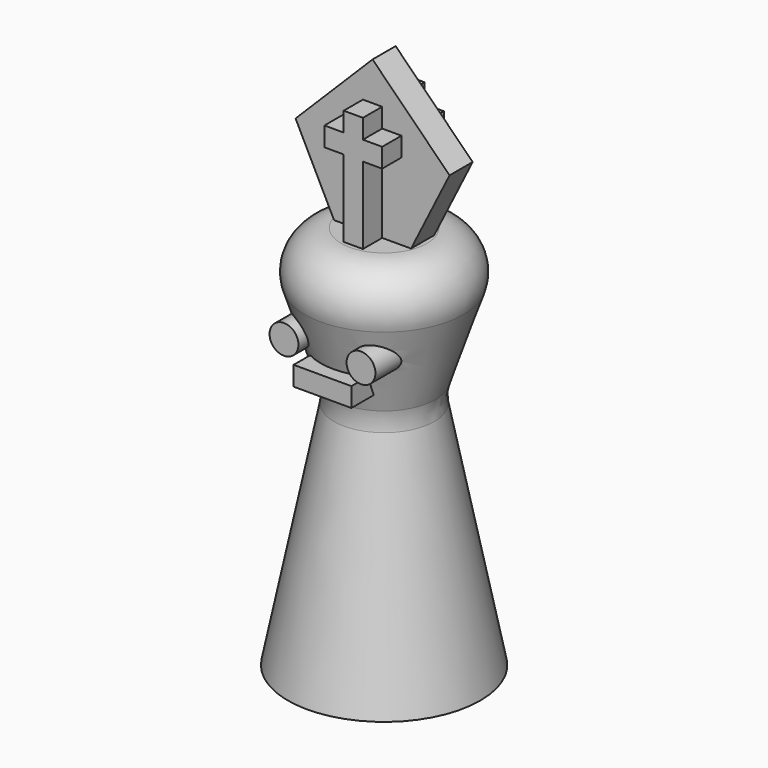
from build123d import *

# Parameters (mm, degrees)
F2_R     = 5.08
F4_DEPTH = 1.905
F6_DEPTH = 5.08
F7_R     = 1.905
F7_W     = 7.62
F7_H     = 2.54
F8_DEPTH = 10.16


with BuildPart() as f1:
    # F0 (on Front) → F1 (revolve)
    with BuildSketch(Plane.XZ):
        Polygon((12.7, 50.8), (12.7, 0), (25.4, 0), (19.05, 31.75), (25.4, 50.8), align=None)
    revolve(axis=Axis((12.7, 0, 25.4), (0, 0, -1)))

    # F2
    f2_edges = [f1.edges().sort_by_distance(p)[0] for p in [
        (0, 0, 50.8),
        (6.35, 0, 31.75),
    ]]
    fillet(f2_edges, radius=F2_R)

    # F3 (on Front) → F4 (join, symmetric)
    with BuildSketch(Plane.XZ):
        Polygon((2.54, 60.96), (7.62, 50.8), (17.78, 50.8), (22.86, 60.96), (12.7, 71.12), align=None)
    extrude(amount=F4_DEPTH, both=True)

    # F5 (on Front) → F6 (join, symmetric)
    with BuildSketch(Plane.XZ):
        Polygon((11.43, 63.5), (8.89, 63.5), (8.89, 60.96), (11.43, 60.96), (11.43, 50.8), (13.97, 50.8), (13.97, 60.96), (16.51, 60.96), (16.51, 63.5), (13.97, 63.5), (13.97, 66.04), (11.43, 66.04), align=None)
    extrude(amount=F6_DEPTH, both=True)

    # F7 (on Front) → F8 (join)
    with BuildSketch(Plane.XZ):
        with Locations((7.62, 40.3035629486)):
            Circle(F7_R)
        with Locations((17.78, 40.3035629486)):
            Circle(F7_R)
        with Locations((12.7, 36.4935629486)):
            Rectangle(F7_W, F7_H)
    extrude(amount=F8_DEPTH)


solid = f1.part
